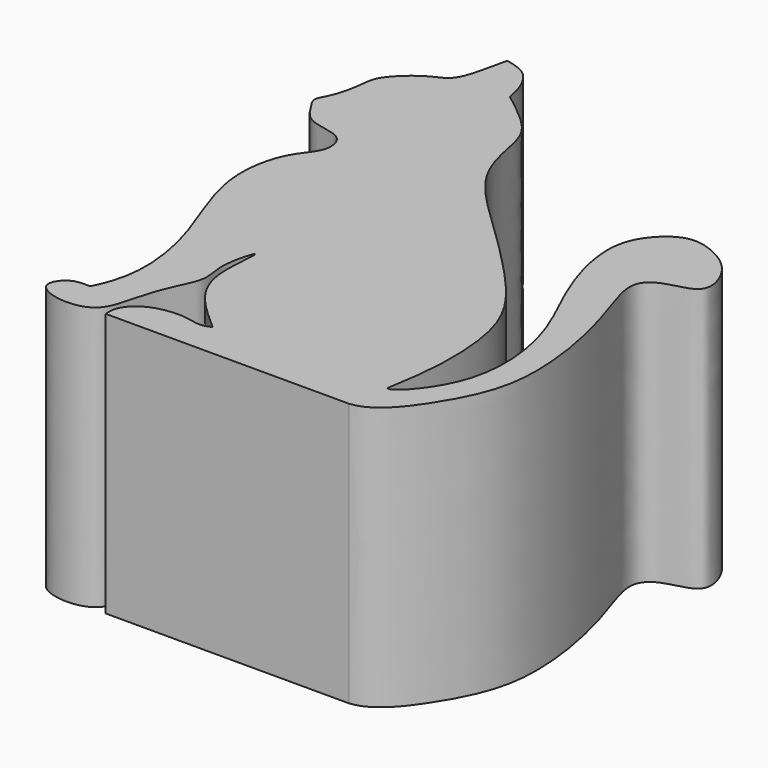
from build123d import *

# Parameters (mm, degrees)
F1_DEPTH = 30


with BuildPart() as f1:
    # F0 (on Top) → F1 (new body)
    with BuildSketch(Plane.XY):
        with BuildLine():
            add(Edge.make_bspline(
                [(-10.7907131314, 21.3616266847), (-10.9120386314, 22.0249772599), (-11.1723534742, 23.4482559674), (-12.6875231681, 26.0343566422), (-14.4356203443, 26.418131185), (-15.2920903638, 26.6061592847)],
                knots=[0, 0, 0, 0, 0.3080705185, 0.6609931847, 1, 1, 1, 1], degree=3))
            add(Edge.make_bspline(
                [(-15.2920903638, 26.6061592847), (-15.4540280184, 25.8507431038), (-15.8106069597, 24.2473362933), (-16.6486758474, 20.6510804145), (-19.159346829, 20.0716264733), (-22.4531666313, 17.0651134265), (-22.5027045732, 14.923029141), (-23.1112426451, 11.7511179145), (-24.3067014098, 10.1534559343), (-23.3821845162, 8.8796050397), (-21.9070312285, 6.2098042918), (-17.5222343227, 6.4046595766), (-16.8544541399, 2.9079383338), (-19.6213563931, 0.5050455565), (-21.0566655045, -6.4581057078), (-17.5580673858, -14.7561207409), (-15.4840648977, -21.5299863644), (-15.4838063766, -27.2496243168), (-17.1074401587, -30.3889773786)],
                knots=[0, 0, 0, 0, 0.0509263463, 0.1096531944, 0.1602200219, 0.2257613655, 0.2731352124, 0.3308084466, 0.3735691208, 0.4107882252, 0.4650617615, 0.5276052219, 0.5788652861, 0.6380089096, 0.721213802, 0.8177972266, 0.9036131869, 1, 1, 1, 1], degree=3))
            add(Edge.make_bspline(
                [(-17.1074401587, -30.3889773786), (-17.84689222, -30.3667257683), (-19.311161107, -30.30772248), (-20.9878133961, -32.6348890186), (-18.3225251563, -34.3109948899), (-13.7454439069, -34.006295721), (-12.7394036915, -30.2838045978), (-11.7466638777, -26.4790508446), (-9.631265184, -22.8831443351), (-10.8344287378, -20.1507598688), (-9.3689429085, -15.2281920669), (-9.5956885889, -18.2525641885), (-9.8520061871, -21.8633407157), (-8.2882045233, -25.7215880774), (-5.3482534902, -28.3026589916), (-3.7032437976, -29.7468602657)],
                knots=[0, 0, 0, 0, 0.0621876838, 0.1227135746, 0.1890415613, 0.2746991003, 0.3524669931, 0.4385837674, 0.5210864309, 0.5971345784, 0.6756197097, 0.726584677, 0.8106725607, 0.8950240562, 1, 1, 1, 1], degree=3))
            add(Edge.make_bspline(
                [(-3.7032437976, -29.7468602657), (-4.0993124756, -29.904890796), (-5.0078569817, -30.2673980533), (-7.1059331464, -29.4950085034), (-10.8857803405, -30.0036561767), (-12.800961023, -32.061524606), (-12.7535583654, -33.1905715356), (-12.7330170944, -33.6798280478)],
                knots=[0, 0, 0, 0, 0.1540882439, 0.353464021, 0.6166226475, 0.8338688487, 1, 1, 1, 1], degree=3))
            Line((-12.7330170944, -33.6798280478), (14.9678522721, -33.6798280478))
            add(Edge.make_bspline(
                [(14.9678522721, -33.6798280478), (17.4227370677, -33.4396661279), (21.2496784223, -28.4360101238), (24.7184202603, -21.1398837069), (23.3569592479, -10.59589813), (21.3016242975, -4.2994979373), (19.8259886494, 0.0758789655), (21.9705100289, 2.1074707774), (26.7236966544, 2.4687190144), (25.2082335125, 7.1884516518), (22.2678327587, 9.3619066503), (18.722676528, 10.5028251933), (15.5692039294, 8.2018236244), (13.6751981734, 4.087290858), (16.0810862094, -4.7054532711), (20.6105925854, -12.2853707418), (21.6724673753, -23.6287338759), (16.5139147015, -29.3719976455), (15.8184113694, -29.2524762081), (15.7246102077, -29.2116016718)],
                knots=[0, 0, 0, 0, 0.0708889115, 0.1444548553, 0.2262997836, 0.2935597875, 0.3446408169, 0.3848376435, 0.4342929025, 0.4826552795, 0.5324796814, 0.5793136023, 0.626560677, 0.6786949939, 0.7535293336, 0.8311010189, 0.9166330366, 0.9821717141, 0.9941533838, 0.9941533838, 0.9941533838, 0.9941533838], degree=3))
            add(Edge.make_bspline(
                [(15.7246102147, -29.2116016622), (16.0500403619, -27.2747853774), (16.7672513776, -22.9819700113), (16.3862725758, -13.3103270663), (11.2718997184, -6.4515548441), (3.4298192278, 1.2384854338), (-3.2522769531, 7.4929260639), (-4.7055929544, 13.0547169858), (-5.339847443, 17.2774851604), (-8.8748275628, 19.8727642277), (-10.7907131314, 21.3616266847)],
                knots=[0.0001318545, 0.0001318545, 0.0001318545, 0.0001318545, 0.1156167981, 0.2556958751, 0.3894612014, 0.543523903, 0.6825333565, 0.7894819323, 0.88108571, 1, 1, 1, 1], degree=3))
        make_face()
    extrude(amount=F1_DEPTH)


solid = f1.part
